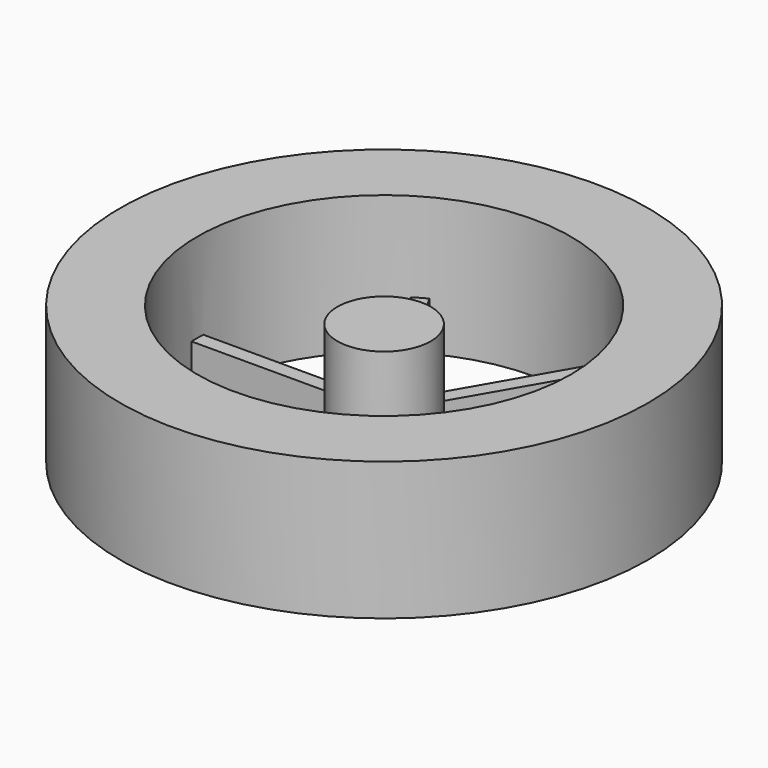
from build123d import *

# Parameters (mm, degrees)
BOX_W             = 19
BOX_H             = 1.8
BOX_DEPTH         = 6
ARRAY004_COUNT    = 6
CYLINDER_R        = 5.75
CYLINDER_DEPTH    = 15
CYLINDER003_R     = 23
CYLINDER003_DEPTH = 17
CYLINDER002_R     = 32.5
CYLINDER002_DEPTH = 17


with BuildPart() as array004:
    # Box → Box (new body)
    with BuildSketch(Plane(origin=(5, -0.9, 0), x_dir=(1, 0, 0), z_dir=(0, 0, 1))):
        with Locations((9.5, 0.9)):
            Rectangle(BOX_W, BOX_H)
    extrude(amount=BOX_DEPTH)

    # Array004: Array004 ×6 about axis
    array004_axis = Axis((0, 0, 0), (0, 0, 1))


with BuildPart() as array004_1:
    add(array004.part)
    for i in range(1, ARRAY004_COUNT):
        add(array004.part.rotate(array004_axis, i * 360 / ARRAY004_COUNT))


with BuildPart() as wheel_model:
    # Cylinder → Cylinder (new body)
    with BuildSketch(Plane.XY):
        Circle(CYLINDER_R)
    extrude(amount=CYLINDER_DEPTH)

    # Fusion: union Array004
    add(array004_1.part)


with BuildPart() as cilindro003:
    # Cylinder003 → Cylinder003 (new body)
    with BuildSketch(Plane.XY):
        Circle(CYLINDER003_R)
    extrude(amount=CYLINDER003_DEPTH)


with BuildPart() as wheel_model001:
    # Cylinder002 → Cylinder002 (new body)
    with BuildSketch(Plane.XY):
        Circle(CYLINDER002_R)
    extrude(amount=CYLINDER002_DEPTH)

    # Cut003: cut Cilindro003
    add(cilindro003.part, mode=Mode.SUBTRACT)

    # Fusion002: union Wheel_model
    add(wheel_model.part)


solid = wheel_model001.part
